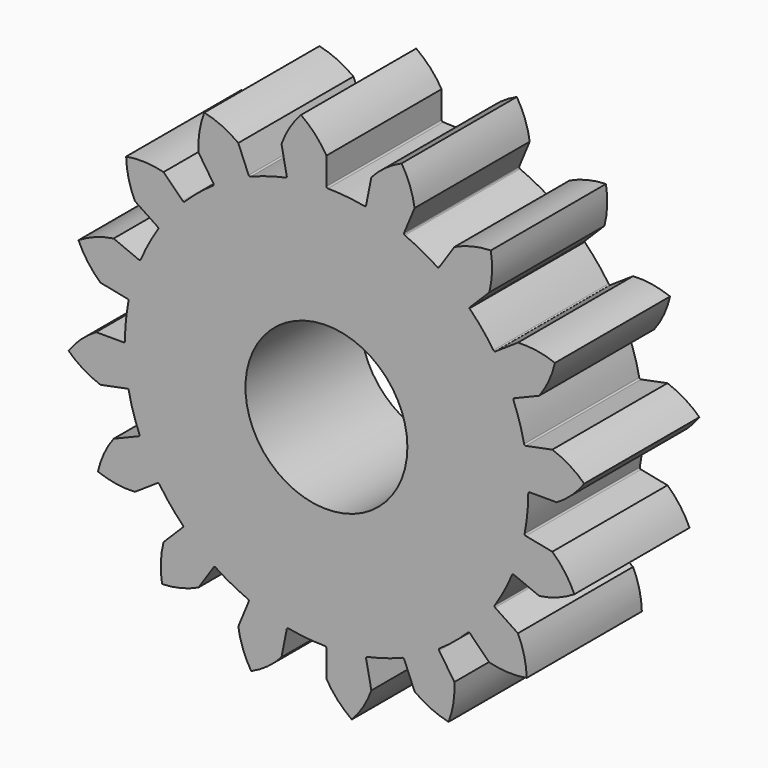
from build123d import *

# Parameters (mm, degrees)
F0_R     = 14.2875
F1_DEPTH = 25.4


with BuildPart() as f1:
    # F0 (on Front) → F1 (new body)
    with BuildSketch(Plane.XZ):
        with BuildLine():
            ThreePointArc((-29.665855, 19.710533), (-29.671997, 19.624723), (-29.70643, 19.545885))
            ThreePointArc((-29.70643, 19.545885), (-31.36112, 16.762868), (-32.755818, 13.840882))
            ThreePointArc((-32.755818, 13.840882), (-32.802239, 13.768452), (-32.870175, 13.715672))
            ThreePointArc((-32.870175, 13.715672), (-32.977394, 13.686048), (-33.086989, 13.70508))
            Line((-33.086989, 13.70508), (-37.546464, 15.552255))
            ThreePointArc((-37.546464, 15.552255), (-40.768905, 14.73859), (-43.751312, 13.271815))
            ThreePointArc((-43.751312, 13.271815), (-42.086428, 10.395301), (-39.859114, 7.928471))
            Line((-39.859114, 7.928471), (-35.124961, 6.986789))
            ThreePointArc((-35.124961, 6.986789), (-35.023262, 6.941726), (-34.950571, 6.857527))
            ThreePointArc((-34.950571, 6.857527), (-34.923407, 6.775898), (-34.925049, 6.689885))
            ThreePointArc((-34.925049, 6.689885), (-35.388769, 3.48549), (-35.559106, 0.252199))
            ThreePointArc((-35.559106, 0.252199), (-35.574276, 0.167517), (-35.616843, 0.092757))
            ThreePointArc((-35.616843, 0.092757), (-35.704563, 0.024357), (-35.813099, 0))
            Line((-35.813099, 0), (-40.64, 0))
            ThreePointArc((-40.64, 0), (-43.305771, -1.984903), (-45.499846, -4.481344))
            ThreePointArc((-45.499846, -4.481344), (-42.860898, -6.501773), (-39.859114, -7.928471))
            Line((-39.859114, -7.928471), (-35.124961, -6.986789))
            ThreePointArc((-35.124961, -6.986789), (-35.013758, -6.989504), (-34.914379, -7.039476))
            ThreePointArc((-34.914379, -7.039476), (-34.106366, -10.262742), (-33.001472, -13.396676))
            ThreePointArc((-33.001472, -13.396676), (-33.0025, -13.590246), (-33.139618, -13.726879))
            Line((-33.139618, -13.726879), (-37.546464, -15.552255))
            ThreePointArc((-37.546464, -15.552255), (-39.249726, -18.406213), (-40.32144, -21.552259))
            ThreePointArc((-40.32144, -21.552259), (-37.110186, -22.409011), (-33.790925, -22.578374))
            Line((-33.790925, -22.578374), (-29.824868, -19.92834))
            ThreePointArc((-29.824868, -19.92834), (-29.635083, -19.89024), (-29.473565, -19.996926))
            ThreePointArc((-29.473565, -19.996926), (-27.48164, -22.656733), (-25.2505, -25.119322))
            ThreePointArc((-25.2505, -25.119322), (-25.264162, -25.229716), (-25.323685, -25.323685))
            Line((-25.323685, -25.323685), (-28.73682, -28.73682))
            ThreePointArc((-28.73682, -28.73682), (-29.218266, -32.025343), (-29.004461, -35.342038))
            ThreePointArc((-29.004461, -35.342038), (-25.709784, -34.90468), (-22.578374, -33.790925))
            Line((-22.578374, -33.790925), (-19.896692, -29.777504))
            ThreePointArc((-19.896692, -29.777504), (-19.735935, -29.669676), (-19.545885, -29.70643))
            ThreePointArc((-19.545885, -29.70643), (-16.762868, -31.36112), (-13.840882, -32.755818))
            ThreePointArc((-13.840882, -32.755818), (-13.704737, -32.893419), (-13.70508, -33.086989))
            Line((-13.70508, -33.086989), (-15.552255, -37.546464))
            ThreePointArc((-15.552255, -37.546464), (-14.73859, -40.768905), (-13.271815, -43.751312))
            ThreePointArc((-13.271815, -43.751312), (-10.395301, -42.086428), (-7.928471, -39.859114))
            Line((-7.928471, -39.859114), (-6.997902, -35.180831))
            ThreePointArc((-6.997902, -35.180831), (-6.890645, -35.019692), (-6.700995, -34.98092))
            ThreePointArc((-6.700995, -34.98092), (-3.491073, -35.445458), (-0.252201, -35.616071))
            ThreePointArc((-0.252201, -35.616071), (-0.07376, -35.691096), (0, -35.870064))
            Line((0, -35.870064), (0, -40.64))
            ThreePointArc((0, -40.64), (1.984903, -43.305771), (4.481344, -45.499846))
            ThreePointArc((4.481344, -45.499846), (6.501773, -42.860898), (7.928471, -39.859114))
            Line((7.928471, -39.859114), (6.997902, -35.180831))
            ThreePointArc((6.997902, -35.180831), (7.03533, -34.990912), (7.195706, -34.882516))
            ThreePointArc((7.195706, -34.882516), (10.339059, -34.083309), (13.396676, -33.001472))
            ThreePointArc((13.396676, -33.001472), (13.590246, -33.0025), (13.726879, -33.139618))
            Line((13.726879, -33.139618), (15.552255, -37.546464))
            ThreePointArc((15.552255, -37.546464), (18.406213, -39.249726), (21.552259, -40.32144))
            ThreePointArc((21.552259, -40.32144), (22.409011, -37.110186), (22.578374, -33.790925))
            Line((22.578374, -33.790925), (19.896692, -29.777504))
            ThreePointArc((19.896692, -29.777504), (19.858592, -29.58772), (19.965276, -29.426202))
            ThreePointArc((19.965276, -29.426202), (22.559025, -27.488252), (24.965753, -25.322416))
            ThreePointArc((24.965753, -25.322416), (25.144981, -25.249292), (25.323685, -25.323685))
            Line((25.323685, -25.323685), (28.73682, -28.73682))
            ThreePointArc((28.73682, -28.73682), (32.025343, -29.218266), (35.342038, -29.004461))
            ThreePointArc((35.342038, -29.004461), (34.90468, -25.709784), (33.790925, -22.578374))
            Line((33.790925, -22.578374), (29.777504, -19.896692))
            ThreePointArc((29.777504, -19.896692), (29.669676, -19.735935), (29.70643, -19.545885))
            ThreePointArc((29.70643, -19.545885), (31.36112, -16.762868), (32.755818, -13.840882))
            ThreePointArc((32.755818, -13.840882), (32.893419, -13.704737), (33.086989, -13.70508))
            Line((33.086989, -13.70508), (37.546464, -15.552255))
            ThreePointArc((37.546464, -15.552255), (40.768905, -14.73859), (43.751312, -13.271815))
            ThreePointArc((43.751312, -13.271815), (42.086428, -10.395301), (39.859114, -7.928471))
            Line((39.859114, -7.928471), (35.180831, -6.997902))
            ThreePointArc((35.180831, -6.997902), (35.019692, -6.890645), (34.98092, -6.700995))
            ThreePointArc((34.98092, -6.700995), (35.445458, -3.491073), (35.616071, -0.252201))
            ThreePointArc((35.616071, -0.252201), (35.691096, -0.07376), (35.870064, 0))
            Line((35.870064, 0), (40.64, 0))
            ThreePointArc((40.64, 0), (43.305771, 1.984903), (45.499846, 4.481344))
            ThreePointArc((45.499846, 4.481344), (42.860898, 6.501773), (39.859114, 7.928471))
            Line((39.859114, 7.928471), (35.180831, 6.997902))
            ThreePointArc((35.180831, 6.997902), (34.990912, 7.03533), (34.882516, 7.195706))
            ThreePointArc((34.882516, 7.195706), (34.083309, 10.339059), (33.001472, 13.396676))
            ThreePointArc((33.001472, 13.396676), (33.0025, 13.590246), (33.139618, 13.726879))
            Line((33.139618, 13.726879), (37.546464, 15.552255))
            ThreePointArc((37.546464, 15.552255), (39.249726, 18.406213), (40.32144, 21.552259))
            ThreePointArc((40.32144, 21.552259), (37.110186, 22.409011), (33.790925, 22.578374))
            Line((33.790925, 22.578374), (29.824868, 19.92834))
            ThreePointArc((29.824868, 19.92834), (29.635083, 19.89024), (29.473565, 19.996926))
            ThreePointArc((29.473565, 19.996926), (27.48164, 22.656733), (25.2505, 25.119322))
            ThreePointArc((25.2505, 25.119322), (25.264162, 25.229716), (25.323685, 25.323685))
            Line((25.323685, 25.323685), (28.73682, 28.73682))
            ThreePointArc((28.73682, 28.73682), (29.218266, 32.025343), (29.004461, 35.342038))
            ThreePointArc((29.004461, 35.342038), (25.709784, 34.90468), (22.578374, 33.790925))
            Line((22.578374, 33.790925), (19.896692, 29.777504))
            ThreePointArc((19.896692, 29.777504), (19.81614, 29.700791), (19.710533, 29.665855))
            ThreePointArc((19.710533, 29.665855), (19.624723, 29.671997), (19.545885, 29.70643))
            ThreePointArc((19.545885, 29.70643), (16.762868, 31.36112), (13.840882, 32.755818))
            ThreePointArc((13.840882, 32.755818), (13.768452, 32.802239), (13.715672, 32.870175))
            ThreePointArc((13.715672, 32.870175), (13.686048, 32.977394), (13.70508, 33.086989))
            Line((13.70508, 33.086989), (15.552255, 37.546464))
            ThreePointArc((15.552255, 37.546464), (14.73859, 40.768905), (13.271815, 43.751312))
            ThreePointArc((13.271815, 43.751312), (10.395301, 42.086428), (7.928471, 39.859114))
            Line((7.928471, 39.859114), (6.997902, 35.180831))
            ThreePointArc((6.997902, 35.180831), (6.890645, 35.019692), (6.700995, 34.98092))
            ThreePointArc((6.700995, 34.98092), (3.491073, 35.445458), (0.252201, 35.616071))
            ThreePointArc((0.252201, 35.616071), (0.07376, 35.691096), (0, 35.870064))
            Line((0, 35.870064), (0, 40.64))
            ThreePointArc((0, 40.64), (-1.984903, 43.305771), (-4.481344, 45.499846))
            ThreePointArc((-4.481344, 45.499846), (-6.501773, 42.860898), (-7.928471, 39.859114))
            Line((-7.928471, 39.859114), (-6.997902, 35.180831))
            ThreePointArc((-6.997902, 35.180831), (-7.03533, 34.990912), (-7.195706, 34.882516))
            ThreePointArc((-7.195706, 34.882516), (-10.339059, 34.083309), (-13.396676, 33.001472))
            ThreePointArc((-13.396676, 33.001472), (-13.590246, 33.0025), (-13.726879, 33.139618))
            Line((-13.726879, 33.139618), (-15.552255, 37.546464))
            ThreePointArc((-15.552255, 37.546464), (-18.406213, 39.249726), (-21.552259, 40.32144))
            ThreePointArc((-21.552259, 40.32144), (-22.409011, 37.110186), (-22.578374, 33.790925))
            Line((-22.578374, 33.790925), (-19.92834, 29.824868))
            ThreePointArc((-19.92834, 29.824868), (-19.89024, 29.635083), (-19.996926, 29.473565))
            ThreePointArc((-19.996926, 29.473565), (-22.595162, 27.532285), (-25.006032, 25.362698))
            ThreePointArc((-25.006032, 25.362698), (-25.18526, 25.289572), (-25.363966, 25.363966))
            Line((-25.363966, 25.363966), (-28.73682, 28.73682))
            ThreePointArc((-28.73682, 28.73682), (-32.025343, 29.218266), (-35.342038, 29.004461))
            ThreePointArc((-35.342038, 29.004461), (-34.90468, 25.709784), (-33.790925, 22.578374))
            Line((-33.790925, 22.578374), (-29.777504, 19.896692))
            ThreePointArc((-29.777504, 19.896692), (-29.700791, 19.81614), (-29.665855, 19.710533))
        make_face()
        Circle(F0_R, mode=Mode.SUBTRACT)
    extrude(amount=F1_DEPTH)


solid = f1.part
